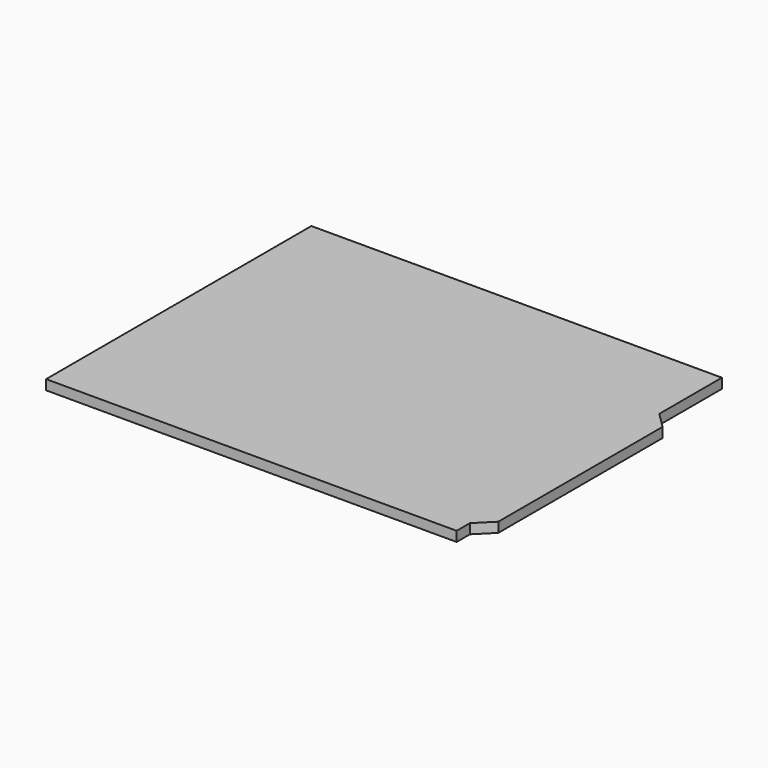
from build123d import *

# Parameters (mm, degrees)
F1_DEPTH = 1.588


with BuildPart() as f1:
    # F0 (on Top) → F1 (new body)
    with BuildSketch(Plane.XY):
        Polygon((50.927, 15.113), (-15.113, 15.113), (-15.113, -38.227), (50.927, -38.227), (50.927, -35.56), (50.927, 2.54), align=None)
        Polygon((53.467, 0), (50.927, 2.54), (50.927, -35.56), (53.467, -33.02), align=None)
    extrude(amount=F1_DEPTH)


solid = f1.part
